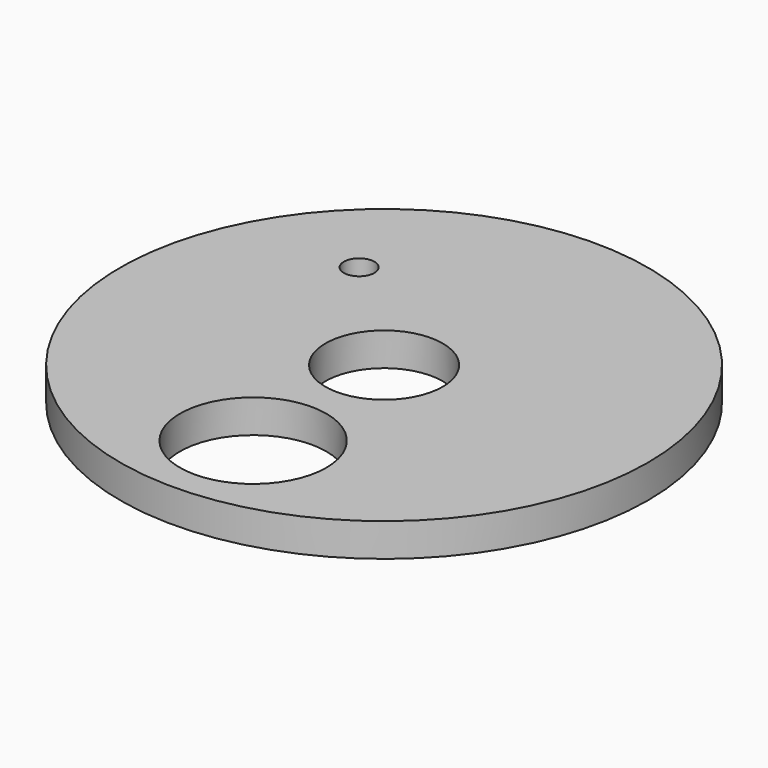
from build123d import *

# Parameters (mm, degrees)
F0_R     = 14.2875
F0_R_2   = 3.9624
F0_R_3   = 0.8255
F0_R_4   = 3.175
F1_DEPTH = 1.8


with BuildPart() as f1:
    # F0 (on Top) → F1 (new body)
    with BuildSketch(Plane.XY):
        Circle(F0_R)
        with Locations((0, -8.860021)):
            Circle(F0_R_2, mode=Mode.SUBTRACT)
        with Locations((-6.414226, 6.329936)):
            Circle(F0_R_3, mode=Mode.SUBTRACT)
        Circle(F0_R_4, mode=Mode.SUBTRACT)
    extrude(amount=F1_DEPTH)


solid = f1.part
